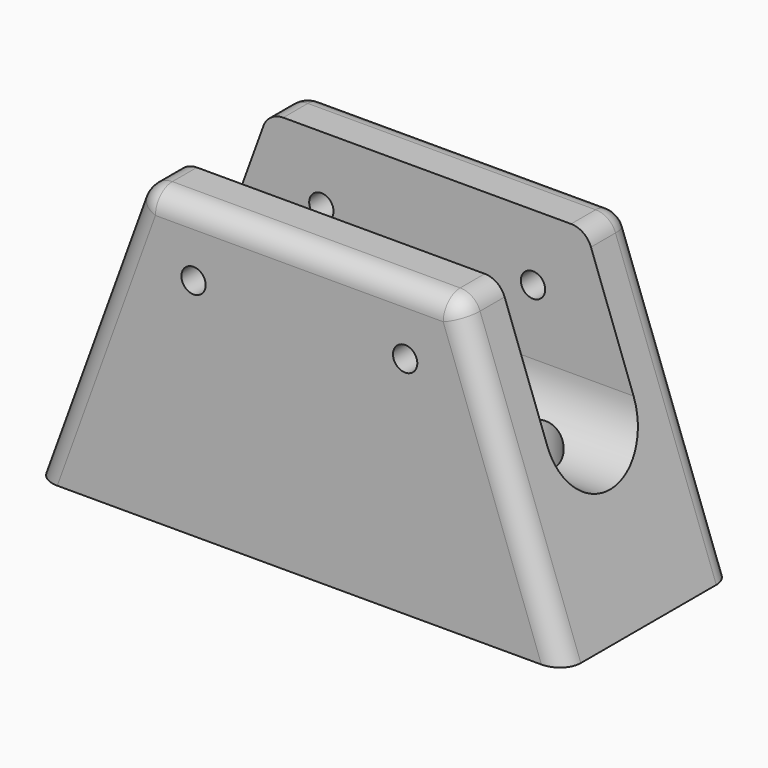
from build123d import *

# Parameters (mm, degrees)
F0_R     = 2.921
F1_DEPTH = 50.8
F3_DEPTH = 278.638
F4_R     = 5.08
F6_DEPTH = 79.502
F9_DEPTH = 68.072


with BuildPart() as f1:
    # F0 (on Front) → F1 (new body)
    with BuildSketch(Plane.XZ):
        Polygon((25.4, 69.85), (0, 0), (127, 0), (101.6, 69.85), align=None)
        with Locations((38.1, 53.975)):
            Circle(F0_R, mode=Mode.SUBTRACT)
        with Locations((88.9, 53.975)):
            Circle(F0_R, mode=Mode.SUBTRACT)
    extrude(amount=F1_DEPTH)

    # F2 (on Right) → F3 (cut)
    with BuildSketch(Plane.YZ):
        with BuildLine():
            Line((-38.354, 86.910382), (-38.354, 38.354))
            ThreePointArc((-38.354, 38.354), (-25.4, 25.4), (-12.446, 38.354))
            Line((-12.446, 38.354), (-12.446, 88.236041))
            Line((-12.446, 88.236041), (-38.354, 86.910382))
        make_face()
    extrude(amount=F3_DEPTH, mode=Mode.SUBTRACT)

    # F4
    f4_edges = [f1.edges().sort_by_distance(p)[0] for p in [
        (114.3, -50.8, 34.925),
        (63.5, -50.8, 69.85),
        (12.7, -50.8, 34.925),
        (101.6, -44.577, 69.85),
        (101.6, -6.223, 69.85),
        (25.4, -44.577, 69.85),
        (25.4, -6.223, 69.85),
        (63.5, 0, 69.85),
        (114.3, 0, 34.925),
        (12.7, 0, 34.925),
    ]]
    fillet(f4_edges, radius=F4_R)

    # F5 (on face) → F6 (cut)
    with BuildSketch(Plane(origin=(0, 0, 0), x_dir=(1, 0, 0), z_dir=(0, 0, -1))):
        with BuildLine():
            Line((28.321, 25.4), (31.75, 25.4))
            Line((31.75, 25.4), (35.179, 25.4))
            ThreePointArc((35.179, 25.4), (31.75, 28.829), (28.321, 25.4))
        make_face()
        with BuildLine():
            Line((35.179, 25.4), (31.75, 25.4))
            Line((31.75, 25.4), (28.321, 25.4))
            ThreePointArc((28.321, 25.4), (31.75, 21.971), (35.179, 25.4))
        make_face()
        with BuildLine():
            ThreePointArc((98.679, 25.4), (95.25, 28.829), (91.821, 25.4))
            ThreePointArc((91.821, 25.4), (95.25, 21.971), (98.679, 25.4))
        make_face()
    extrude(amount=-F6_DEPTH, mode=Mode.SUBTRACT)

    # F8 (on offset) → F9 (cut)
    with BuildSketch(Plane.XY.offset(12.7)):
        with BuildLine():
            ThreePointArc((40.64, -25.4), (31.75, -16.51), (22.86, -25.4))
            Line((22.86, -25.4), (31.75, -25.4))
            Line((31.75, -25.4), (40.64, -25.4))
        make_face()
        with BuildLine():
            ThreePointArc((104.14, -25.4), (95.25, -16.51), (86.36, -25.4))
            ThreePointArc((86.36, -25.4), (95.25, -34.29), (104.14, -25.4))
        make_face()
        with BuildLine():
            Line((31.75, -25.4), (22.86, -25.4))
            ThreePointArc((22.86, -25.4), (31.75, -34.29), (40.64, -25.4))
            Line((40.64, -25.4), (31.75, -25.4))
        make_face()
    extrude(amount=F9_DEPTH, mode=Mode.SUBTRACT)


solid = f1.part
